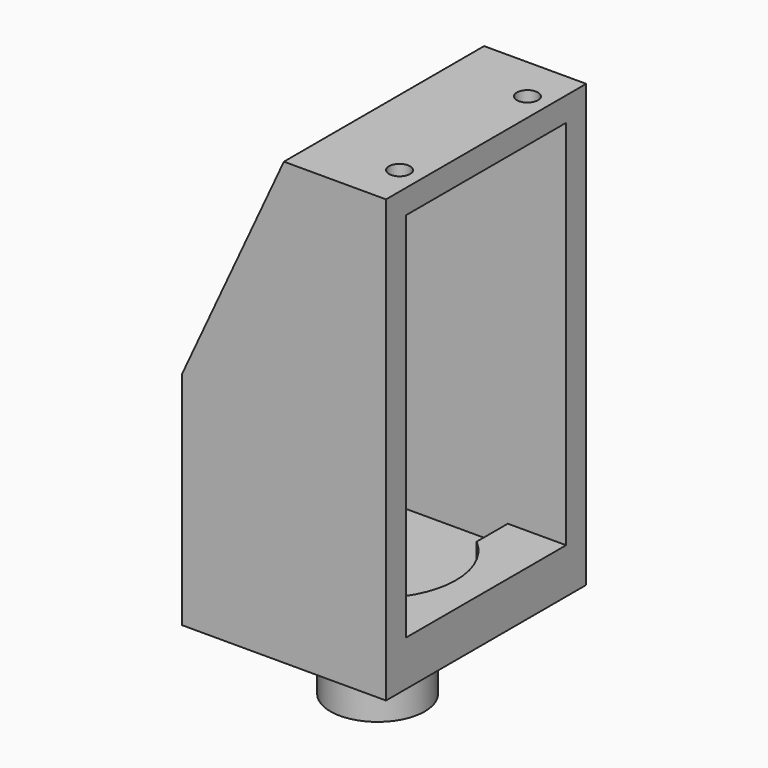
from build123d import *

# Parameters (mm, degrees)
F1_DEPTH  = 24.9
F2_W      = 19.9
F2_H      = 36.5
F3_DEPTH  = 25.4
F4_W      = 24.9
F4_H      = 5
F4_H_2    = 7.5
F5_DEPTH  = 2.5
F7_DEPTH  = 2.5
F8_R      = 1.05
F9_DEPTH  = 25.4
F10_R     = 4.699
F11_DEPTH = 8
F12_R     = 1.016
F13_DEPTH = 5
F14_W     = 2.5
F14_H     = 7.5
F14_H_2   = 5
F15_DEPTH = 25.4
F17_DEPTH = 25.4
F18_W     = 5.8
F18_H     = 19.9
F19_DEPTH = 0.5


with BuildPart() as f1:
    # F0 (on Front) → F1 (new body)
    with BuildSketch(Plane.XZ):
        Polygon((10.16, 21.95), (0, 21.95), (-10.16, 21.95), (-10.16, -21.95), (10.16, -21.95), (10.16, 0), align=None)
    extrude(amount=F1_DEPTH)

    # F2 (on face) → F3 (cut)
    with BuildSketch(Plane(origin=(-10.16, 0, 0), x_dir=(0, -1, 0), z_dir=(-1, 0, 0))):
        with Locations((12.45, 1.3)):
            Rectangle(F2_W, F2_H)
    extrude(amount=-F3_DEPTH, mode=Mode.SUBTRACT)

    # F4 (on face) → F5 (join)
    with BuildSketch(Plane(origin=(-10.16, 0, 0), x_dir=(0, -1, 0), z_dir=(-1, 0, 0))):
        with Locations((12.45, 19.45)):
            Rectangle(F4_W, F4_H)
        with Locations((12.45, -18.2)):
            Rectangle(F4_W, F4_H_2)
    extrude(amount=F5_DEPTH)

    # F6 (on face) → F7 (cut)
    with BuildSketch(Plane.XY.offset(-16.95)):
        with BuildLine():
            Line((4.36, -6.370526), (4.36, -2.5))
            Line((4.36, -2.5), (-10.16, -2.5))
            Line((-10.16, -2.5), (-10.16, -22.4))
            Line((-10.16, -22.4), (4.36, -22.4))
            Line((4.36, -22.4), (4.36, -18.529474))
            ThreePointArc((4.36, -18.529474), (7.16, -12.45), (4.36, -6.370526))
        make_face()
    extrude(amount=-F7_DEPTH, mode=Mode.SUBTRACT)

    # F8 (on face) → F9 (cut)
    with BuildSketch(Plane.XY.offset(21.95)):
        with Locations((7.91, -4.5)):
            Circle(F8_R)
        with Locations((7.91, -20.4)):
            Circle(F8_R)
    extrude(amount=-F9_DEPTH, mode=Mode.SUBTRACT)

    # F10 (on face) → F11 (join)
    with BuildSketch(Plane(origin=(0, 0, -21.95), x_dir=(1, 0, 0), z_dir=(0, 0, -1))):
        with Locations((-0.635, 12.45)):
            Circle(F10_R)
    extrude(amount=F11_DEPTH)

    # F12 (on face) → F13 (cut)
    with BuildSketch(Plane(origin=(0, 0, -29.95), x_dir=(1, 0, 0), z_dir=(0, 0, -1))):
        with Locations((-0.635, 12.45)):
            Circle(F12_R)
    extrude(amount=-F13_DEPTH, mode=Mode.SUBTRACT)

    # F14 (on face) → F15 (cut)
    with BuildSketch(Plane.XZ.offset(24.9)):
        with Locations((-11.41, -18.2)):
            Rectangle(F14_W, F14_H)
        with Locations((-11.41, 19.45)):
            Rectangle(F14_W, F14_H_2)
    extrude(amount=-F15_DEPTH, mode=Mode.SUBTRACT)

    # F16 (on face) → F17 (cut)
    with BuildSketch(Plane(origin=(0, 0, 0), x_dir=(-1, 0, 0), z_dir=(0, 1, 0))):
        Polygon((10.16, 21.95), (0, 21.95), (10.16, 0), align=None)
    extrude(amount=-F17_DEPTH, mode=Mode.SUBTRACT)

    # F18 (on face) → F19 (cut)
    with BuildSketch(Plane.XY.offset(-16.95)):
        with Locations((7.26, -12.45)):
            Rectangle(F18_W, F18_H)
    extrude(amount=-F19_DEPTH, mode=Mode.SUBTRACT)


solid = f1.part
